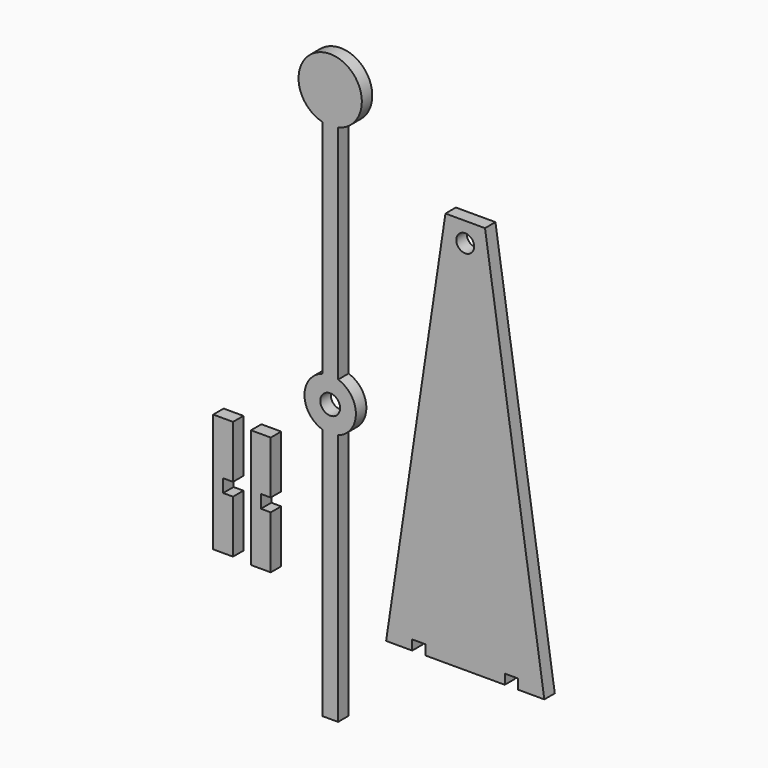
from build123d import *

# Parameters (mm, degrees)
F0_R     = 2.25
F2_DEPTH = 3.3
F3_DEPTH = 3.3
F4_R     = 2.5
F5_DEPTH = 3.3


with BuildPart() as f2:
    # F0 (on Front) → F2 (new body)
    with BuildSketch(Plane.XZ):
        Polygon((-5, 100), (-20, 0), (-13.4, 0), (-13.4, 2.5), (-10, 2.5), (-10, 0), (10, 0), (10, 2.5), (13.4, 2.5), (13.4, 0), (20, 0), (5, 100), align=None)
        with Locations((0, 95)):
            Circle(F0_R, mode=Mode.SUBTRACT)
    extrude(amount=F2_DEPTH)


with BuildPart() as f3:
    # F1 (on Front) → F3 (new body)
    with BuildSketch(Plane.XZ):
        Polygon((-49.159433, 35.780251), (-54.159433, 35.780251), (-54.159433, 5.780251), (-49.159433, 5.780251), (-49.159433, 19.130251), (-51.659433, 19.130251), (-51.659433, 22.430251), (-49.159433, 22.430251), align=None)
        Polygon((-58.700869, 36.170656), (-63.700869, 36.170656), (-63.700869, 6.170656), (-58.700869, 6.170656), (-58.700869, 19.520656), (-61.200869, 19.520656), (-61.200869, 22.820656), (-58.700869, 22.820656), align=None)
    extrude(amount=F3_DEPTH)


with BuildPart() as f5:
    # F4 (on Front) → F5 (new body)
    with BuildSketch(Plane.XZ):
        with BuildLine():
            Line((-36.134413, 41.850759), (-36.134413, -21.964583))
            Line((-36.134413, -21.964583), (-32.134413, -21.964583))
            Line((-32.134413, -21.964583), (-32.134413, 41.850759))
            ThreePointArc((-32.134413, 41.850759), (-27.634413, 48.035417), (-32.134413, 54.220076))
            Line((-32.134413, 54.220076), (-32.134413, 110.289451))
            ThreePointArc((-32.134413, 110.289451), (-34.134413, 126.035417), (-36.134413, 110.289451))
            Line((-36.134413, 110.289451), (-36.134413, 54.220076))
            ThreePointArc((-36.134413, 54.220076), (-40.634413, 48.035417), (-36.134413, 41.850759))
        make_face()
        with Locations((-34.134413, 48.035417)):
            Circle(F4_R, mode=Mode.SUBTRACT)
    extrude(amount=F5_DEPTH)


solid = Compound([f2.part, f3.part, f5.part])
